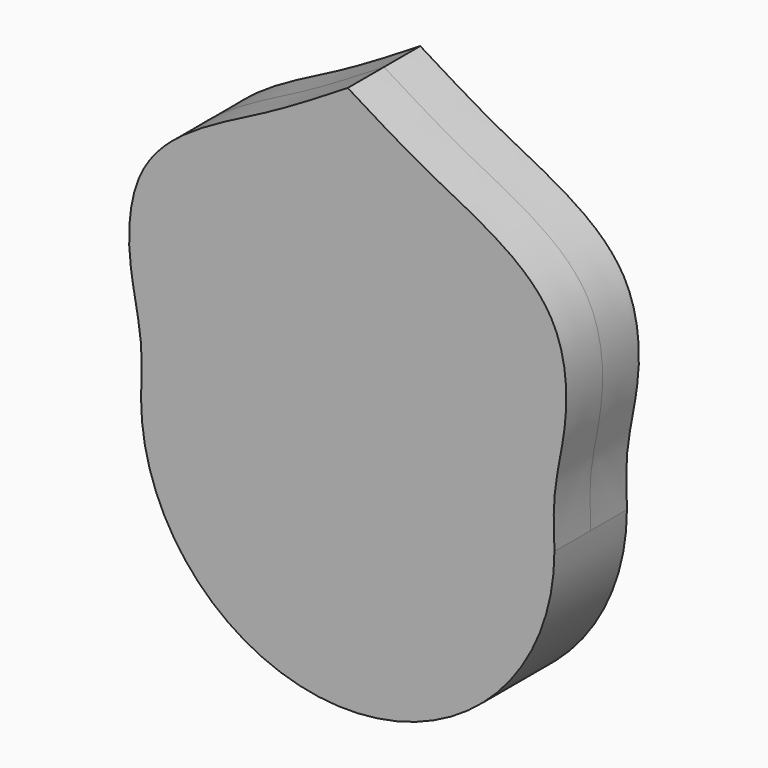
from build123d import *

# Parameters (mm, degrees)
F1_DEPTH = 12.7


with BuildPart() as f1:
    # F0 (on Front) → F1 (new body, symmetric)
    with BuildSketch(Plane.XZ):
        with BuildLine():
            ThreePointArc((-57.9073168337, 0), (0, -57.9073168337), (57.9073168337, 0))
            add(Edge.make_bspline(
                [(57.9073168337, 0), (57.7035928826, 5.0836857421), (57.2764841542, 15.9200002784), (62.591224193, 35.1555711006), (59.6648907409, 58.6163574282), (41.6811280162, 72.8568929301), (21.7803366448, 82.0664074952), (7.4388819921, 90.9145052404), (0, 95.504)],
                knots=[0, 0, 0, 0, 0.1433978074, 0.3056661676, 0.4767459335, 0.6452017867, 0.8159666021, 1, 1, 1, 1], degree=3))
            add(Edge.make_bspline(
                [(-57.9073168337, 0), (-57.7035928826, 5.0836857421), (-57.2764841542, 15.9200002784), (-62.591224193, 35.1555711006), (-59.6648907409, 58.6163574282), (-41.6811280162, 72.8568929301), (-21.7803366448, 82.0664074952), (-7.4388819921, 90.9145052404), (0, 95.504)],
                knots=[0, 0, 0, 0, 0.1433978074, 0.3056661676, 0.4767459335, 0.6452017867, 0.8159666021, 1, 1, 1, 1], degree=3))
        make_face()
    extrude(amount=F1_DEPTH, both=True)


solid = f1.part
